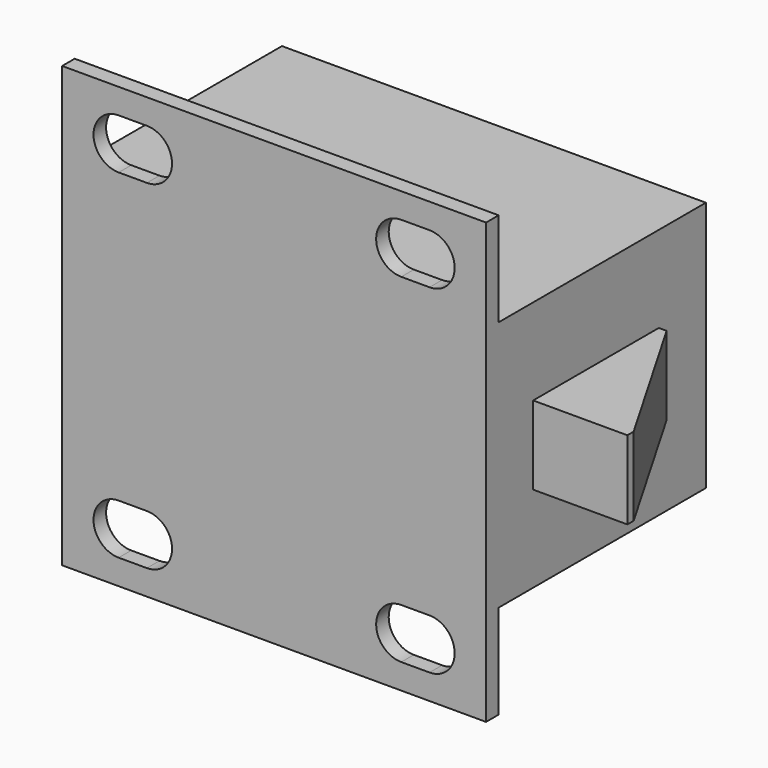
from build123d import *

# Parameters (mm, degrees)
SKETCH083_W   = 27
SKETCH083_H   = 16
PAD049_DEPTH  = 17.5
SKETCH084_W   = 5
SKETCH084_H   = 10
PAD050_DEPTH  = 6
CHAMFER_SIZE2 = 9.5
CHAMFER_SIZE  = 5.5
SKETCH085_W   = 27
SKETCH085_H   = 6
PAD051_DEPTH  = 1


with BuildPart() as part:
    # Sketch083 → Pad049 (new body)
    with BuildSketch(Plane.XZ):
        Rectangle(SKETCH083_W, SKETCH083_H)
    extrude(amount=-PAD049_DEPTH)

    # Sketch084 (on Face4 of Pad049) → Pad050 (join)
    with BuildSketch(Plane(origin=(13.5, 0, 0), x_dir=(0, 0, 1), z_dir=(1, 0, 0))):
        with Locations((0, -8.75)):
            Rectangle(SKETCH084_W, SKETCH084_H)
    extrude(amount=PAD050_DEPTH)

    # Chamfer
    chamfer_edges = [part.edges().sort_by_distance(p)[0] for p in [
        (19.5, 13.75, 0),
    ]]
    chamfer_side = part.faces().sort_by_distance((16.5, 13.75, 0))[0]
    chamfer(chamfer_edges, length=CHAMFER_SIZE, length2=CHAMFER_SIZE2, reference=chamfer_side)

    # Sketch085 (on Face9 of Chamfer) → Pad051 (join)
    with BuildSketch(Plane.XZ):
        with Locations((0, 11)):
            Rectangle(SKETCH085_W, SKETCH085_H)
        with BuildLine():
            Line((-9.9, 9.2), (-8.1, 9.2))
            ThreePointArc((-8.1, 9.2), (-6.5, 10.8), (-8.1, 12.4))
            Line((-8.1, 12.4), (-9.9, 12.4))
            ThreePointArc((-9.9, 12.4), (-11.5, 10.8), (-9.9, 9.2))
        make_face(mode=Mode.SUBTRACT)
        with BuildLine():
            Line((8.1, 9.2), (9.9, 9.2))
            ThreePointArc((9.9, 9.2), (11.5, 10.8), (9.9, 12.4))
            Line((9.9, 12.4), (8.1, 12.4))
            ThreePointArc((8.1, 12.4), (6.5, 10.8), (8.1, 9.2))
        make_face(mode=Mode.SUBTRACT)
        with Locations((0, -11)):
            Rectangle(SKETCH085_W, SKETCH085_H)
        with BuildLine():
            Line((-9.9, -12.4), (-8.1, -12.4))
            ThreePointArc((-8.1, -12.4), (-6.5, -10.8), (-8.1, -9.2))
            Line((-8.1, -9.2), (-9.9, -9.2))
            ThreePointArc((-9.9, -9.2), (-11.5, -10.8), (-9.9, -12.4))
        make_face(mode=Mode.SUBTRACT)
        with BuildLine():
            Line((8.1, -12.4), (9.9, -12.4))
            ThreePointArc((9.9, -12.4), (11.5, -10.8), (9.9, -9.2))
            Line((9.9, -9.2), (8.1, -9.2))
            ThreePointArc((8.1, -9.2), (6.5, -10.8), (8.1, -12.4))
        make_face(mode=Mode.SUBTRACT)
    extrude(amount=-PAD051_DEPTH)


with BuildPart() as part_1:
    # Body020 placement: moved
    add(part.part.moved(Location((16, -46, -47.5))))


solid = part_1.part
